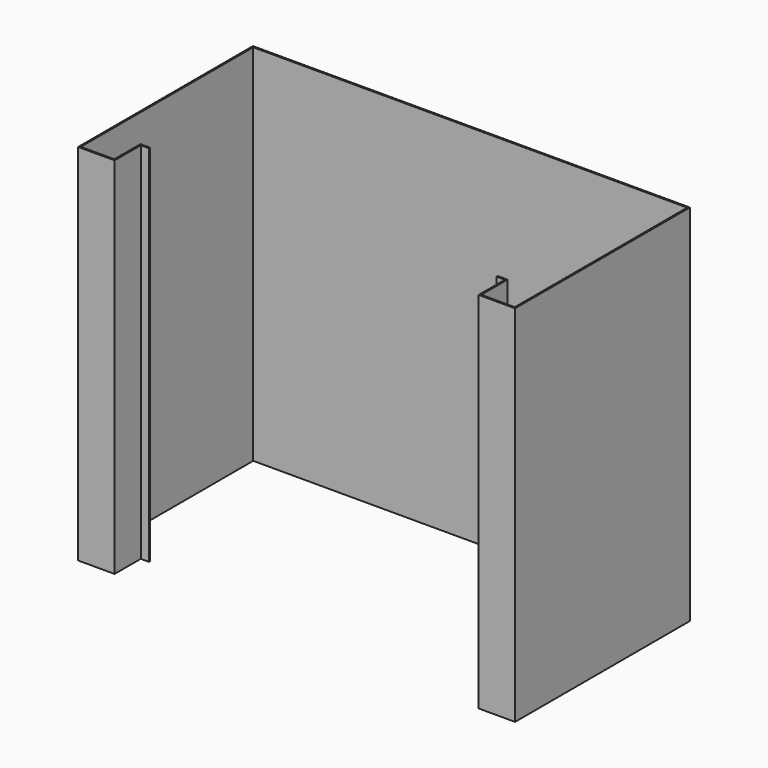
from build123d import *

# Parameters (mm, degrees)
F1_DEPTH = 500


with BuildPart() as f1:
    # F0 (on Top) → F1 (new body)
    with BuildSketch(Plane.XY):
        Polygon((300, 102.130465), (0, 102.130465), (-300, 102.130465), (-300, -197.869535), (-250, -197.869535), (-250, -152.869535), (-238.8, -152.869535), (-238.8, -150.869535), (-252, -150.869535), (-252, -195.869535), (-298, -195.869535), (-298, 100.130465), (0, 100.130465), (298, 100.130465), (298, -195.869535), (252, -195.869535), (252, -150.869535), (238.8, -150.869535), (238.8, -152.869535), (250, -152.869535), (250, -197.869535), (300, -197.869535), align=None)
    extrude(amount=F1_DEPTH)


solid = f1.part
